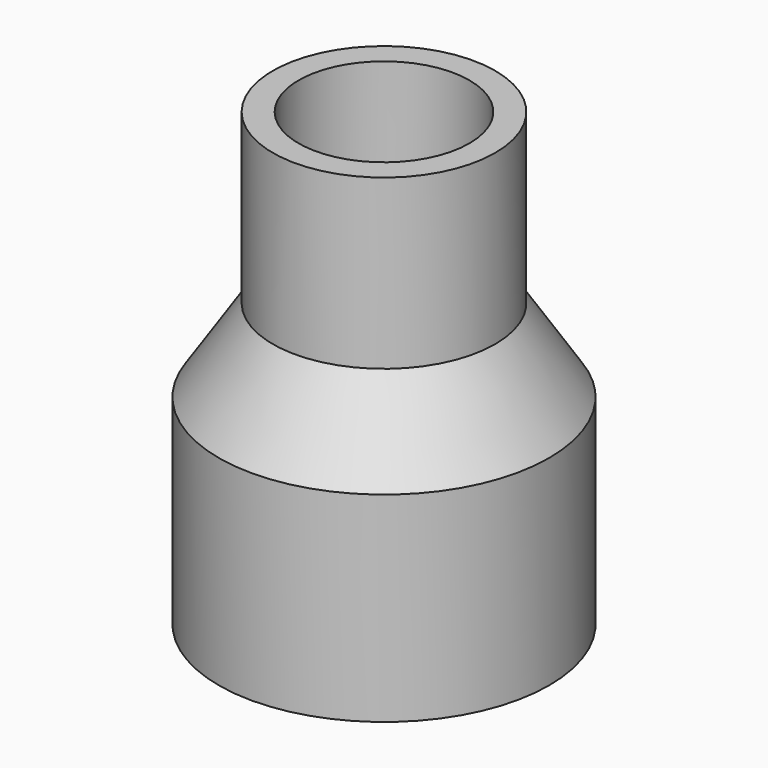
from build123d import *

# Parameters (mm, degrees)
CYLINDER2I_R     = 10.668
CYLINDER2I_DEPTH = 23.01875
CYLINDER1I_R     = 16.7005
CYLINDER1I_DEPTH = 23.01875
CYLINDER2_R      = 13.890625
CYLINDER2_DEPTH  = 21.03176
CYLINDER1_R      = 20.6375
CYLINDER1_DEPTH  = 25.00574


with BuildPart() as cone001:
    # Cone001 → Cone001 (revolve)
    with BuildSketch(Plane(origin=(0, 0, 23.01875), x_dir=(1, 0, 0), z_dir=(0, -1, 0))):
        Polygon((0, 0), (13.0683, 0), (7.6454, 10.31875), (0, 10.31875), align=None)
    revolve(axis=Axis((0, 0, 23.01875), (0, 0, 1)))


with BuildPart() as cylinder2i:
    # Cylinder2i → Cylinder2i (new body)
    with BuildSketch(Plane.XY.offset(33.3375)):
        Circle(CYLINDER2I_R)
    extrude(amount=CYLINDER2I_DEPTH)


with BuildPart() as innerparts:
    # Cylinder1i → Cylinder1i (new body)
    with BuildSketch(Plane.XY):
        Circle(CYLINDER1I_R)
    extrude(amount=CYLINDER1I_DEPTH)

    # InnerParts: union Cone001, Cylinder2i
    add(cone001.part)
    add(cylinder2i.part)


with BuildPart() as cone:
    # Cone → Cone (revolve)
    with BuildSketch(Plane(origin=(0, 0, 25.00574), x_dir=(1, 0, 0), z_dir=(0, -1, 0))):
        Polygon((0, 0), (20.6375, 0), (13.890625, 10.31875), (0, 10.31875), align=None)
    revolve(axis=Axis((0, 0, 25.00574), (0, 0, 1)))


with BuildPart() as cylinder2:
    # Cylinder2 → Cylinder2 (new body)
    with BuildSketch(Plane.XY.offset(35.32449)):
        Circle(CYLINDER2_R)
    extrude(amount=CYLINDER2_DEPTH)


with BuildPart() as coupling:
    # Cylinder1 → Cylinder1 (new body)
    with BuildSketch(Plane.XY):
        Circle(CYLINDER1_R)
    extrude(amount=CYLINDER1_DEPTH)

    # OuterParts: union Cone, Cylinder2
    add(cone.part)
    add(cylinder2.part)

    # coupling: cut InnerParts
    add(innerparts.part, mode=Mode.SUBTRACT)


solid = coupling.part
